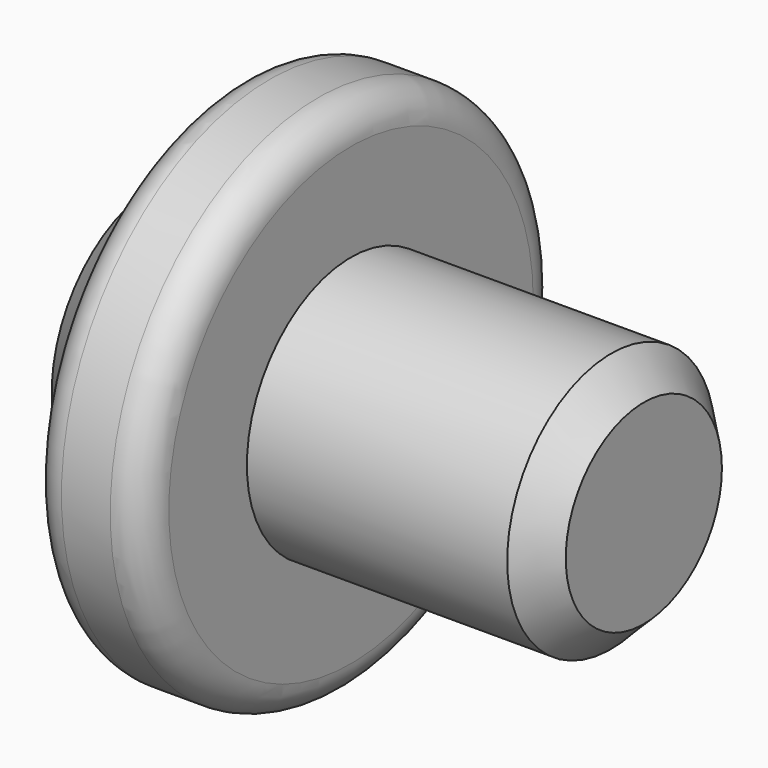
from build123d import *

# Parameters (mm, degrees)
F2_SIZE2 = 5.08
F2_SIZE  = 5.08
F3_R     = 5.08
F4_SIZE  = 5.08


with BuildPart() as f1:
    # F0 (on Top) → F1 (revolve)
    with BuildSketch(Plane.XY):
        Polygon((0, 25.4), (0, 0), (76.2, 0), (76.2, 20.32), (30.48, 20.32), (30.48, 40.64), (12.7, 40.64), (12.7, 25.4), align=None)
    revolve(axis=Axis((38.1, 0, 0), (-1, 0, 0)))

    # F2
    f2_edges = [f1.edges().sort_by_distance(p)[0] for p in [
        (76.2, -20.32, 0),
    ]]
    chamfer(f2_edges, length=F2_SIZE, length2=F2_SIZE2)

    # F3
    f3_edges = [f1.edges().sort_by_distance(p)[0] for p in [
        (12.7, -40.64, 0),
        (30.48, -40.64, 0),
    ]]
    fillet(f3_edges, radius=F3_R)

    # F4
    f4_edges = [f1.edges().sort_by_distance(p)[0] for p in [
        (0, -25.4, 0),
    ]]
    chamfer(f4_edges, length=F4_SIZE)


solid = f1.part
